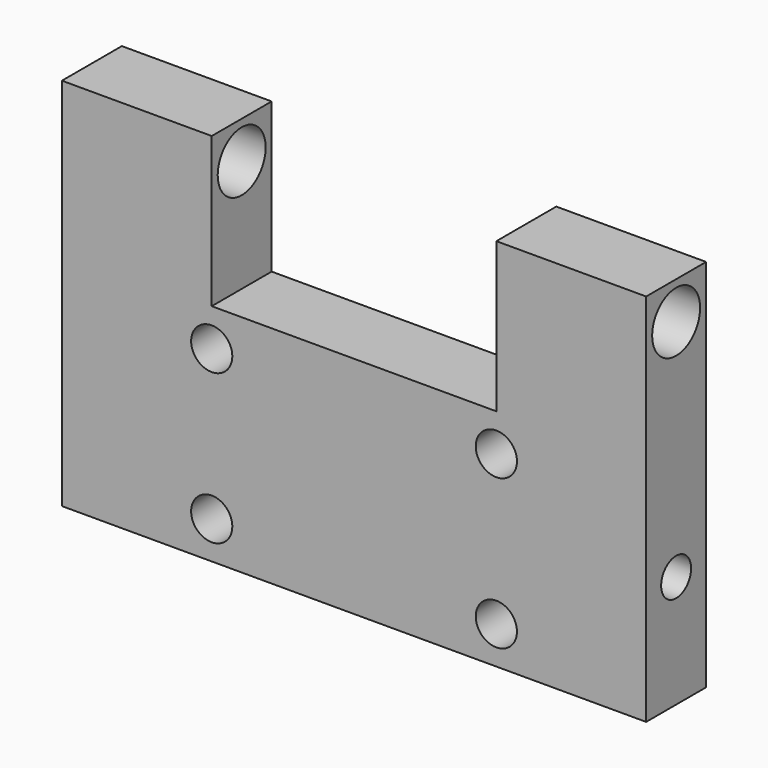
from build123d import *

# Parameters (mm, degrees)
F0_R     = 2.75
F1_DEPTH = 10
F2_R     = 4
F3_DEPTH = 99
F4_R     = 2.5
F5_DEPTH = 25
F6_R     = 2.5
F7_DEPTH = 25
F9_DEPTH = 75


with BuildPart() as f1:
    # F0 (on Front) → F1 (new body)
    with BuildSketch(Plane.XZ):
        Polygon((-19, 24), (-39, 24), (-39, -26), (39, -26), (39, 24), (19, 24), (19, 4), (-19, 4), align=None)
        with Locations((-19, -21)):
            Circle(F0_R, mode=Mode.SUBTRACT)
        with Locations((19, -21)):
            Circle(F0_R, mode=Mode.SUBTRACT)
        with Locations((-19, -1)):
            Circle(F0_R, mode=Mode.SUBTRACT)
        with Locations((19, -1)):
            Circle(F0_R, mode=Mode.SUBTRACT)
    extrude(amount=F1_DEPTH)

    # F2 (on face) → F3 (cut)
    with BuildSketch(Plane(origin=(-39, 0, 0), x_dir=(0, -1, 0), z_dir=(-1, 0, 0))):
        with Locations((5, 19)):
            Circle(F2_R)
    extrude(amount=-F3_DEPTH, mode=Mode.SUBTRACT)

    # F4 (on face) → F5 (cut)
    with BuildSketch(Plane(origin=(-39, 0, 0), x_dir=(0, -1, 0), z_dir=(-1, 0, 0))):
        with Locations((5, -11)):
            Circle(F4_R)
    extrude(amount=-F5_DEPTH, mode=Mode.SUBTRACT)

    # F6 (on face) → F7 (cut)
    with BuildSketch(Plane.YZ.offset(39)):
        with Locations((-5, -11)):
            Circle(F6_R)
    extrude(amount=-F7_DEPTH, mode=Mode.SUBTRACT)

    # F2 (on face) → F9 (cut)
    with BuildSketch(Plane(origin=(-39, 0, 0), x_dir=(0, -1, 0), z_dir=(-1, 0, 0))):
        with Locations((5, 19)):
            Circle(F2_R)
    extrude(amount=-F9_DEPTH, mode=Mode.SUBTRACT)


solid = f1.part
